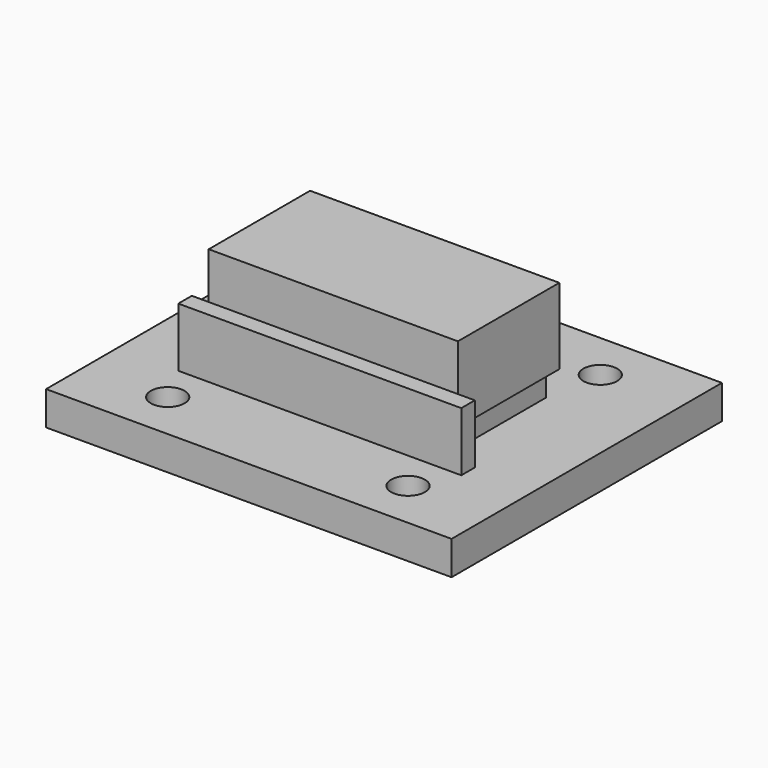
from build123d import *

# Parameters (mm, degrees)
F0_W      = 48
F0_H      = 40
F1_DEPTH  = 4
F2_R      = 2
F3_DEPTH  = 4.001
F4_W      = 29.5
F4_H      = 15
F5_DEPTH  = 12.5
F6_W      = 15
F6_H      = 0.034775
F6_H_2    = 3.5
F7_DEPTH  = 1.6
F8_W      = 15
F8_H      = 3.5
F9_DEPTH  = 1.6
F10_DEPTH = 1.6
F11_W     = 33.5
F11_H     = 7
F12_DEPTH = 2


with BuildPart() as f1:
    # F0 (on Top) → F1 (new body)
    with BuildSketch(Plane.XY):
        Rectangle(F0_W, F0_H)
    extrude(amount=F1_DEPTH)

    # F2 (on face) → F3 (cut, through all)
    with BuildSketch(Plane.XY.offset(4)):
        with Locations((-14.224, 14.224)):
            Circle(F2_R)
        with Locations((14.224, 14.224)):
            Circle(F2_R)
        with Locations((-14.224, -14.224)):
            Circle(F2_R)
        with Locations((14.224, -14.224)):
            Circle(F2_R)
    extrude(amount=-F3_DEPTH, mode=Mode.SUBTRACT)

    # F4 (on face) → F5 (join)
    with BuildSketch(Plane.XY.offset(4)):
        Rectangle(F4_W, F4_H)
    extrude(amount=F5_DEPTH)

    # F6 (on face) → F7 (cut)
    with BuildSketch(Plane(origin=(-14.75, 0, 0), x_dir=(0, -1, 0), z_dir=(-1, 0, 0))):
        with Locations((0, 3.982613)):
            Rectangle(F6_W, F6_H)
        with Locations((0, 5.75)):
            Rectangle(F6_W, F6_H_2)
    extrude(amount=-F7_DEPTH, mode=Mode.SUBTRACT)

    # F8 (on face) → F9 (cut)
    with BuildSketch(Plane.YZ.offset(14.75)):
        with Locations((0, 5.75)):
            Rectangle(F8_W, F8_H)
    extrude(amount=-F9_DEPTH, mode=Mode.SUBTRACT)

    # F6 (on face) → F10 (cut)
    with BuildSketch(Plane(origin=(-14.75, 0, 0), x_dir=(0, -1, 0), z_dir=(-1, 0, 0))):
        with Locations((0, 3.982613)):
            Rectangle(F6_W, F6_H)
        with Locations((0, 5.75)):
            Rectangle(F6_W, F6_H_2)
    extrude(amount=-F10_DEPTH, mode=Mode.SUBTRACT)

    # F11 (on face) → F12 (join)
    with BuildSketch(Plane.XZ.offset(7.5)):
        with Locations((0, 7.5)):
            Rectangle(F11_W, F11_H)
    extrude(amount=F12_DEPTH)


solid = f1.part
